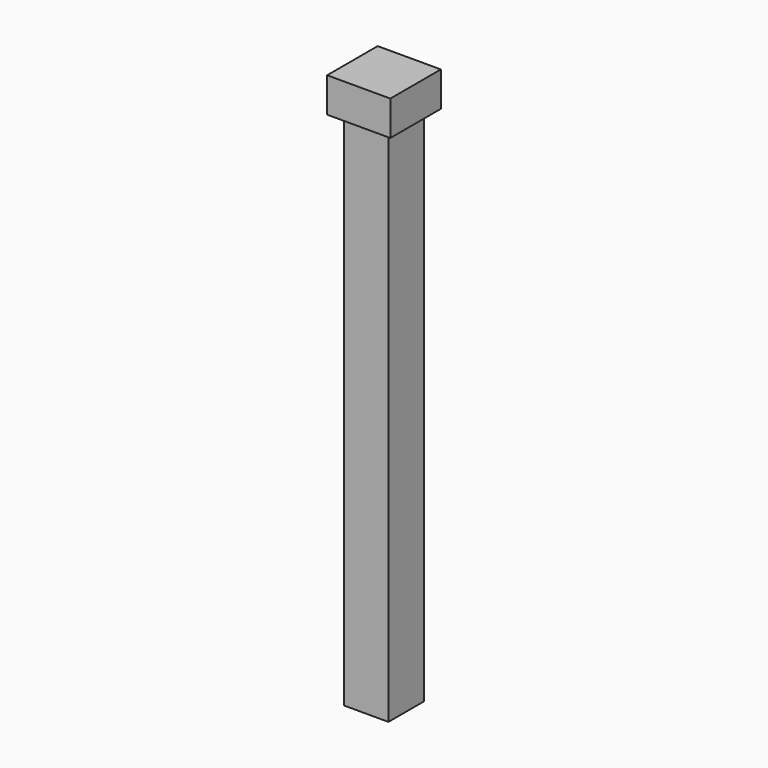
from build123d import *

# Parameters (mm, degrees)
F0_W     = 88.9
F0_H     = 88.9
F1_DEPTH = 523.875
F2_W     = 127
F2_H     = 127
F2_W_2   = 88.9
F2_H_2   = 88.9
F3_DEPTH = 69.85


with BuildPart() as f1:
    # F0 (on Top) → F1 (new body, symmetric)
    with BuildSketch(Plane.XY):
        Rectangle(F0_W, F0_H)
    extrude(amount=F1_DEPTH, both=True)

    # F2 (on face) → F3 (join)
    with BuildSketch(Plane.XY.offset(523.875)):
        Rectangle(F2_W, F2_H)
        Rectangle(F2_W_2, F2_H_2, mode=Mode.SUBTRACT)
        Rectangle(F2_W_2, F2_H_2)
    extrude(amount=F3_DEPTH)


solid = f1.part
